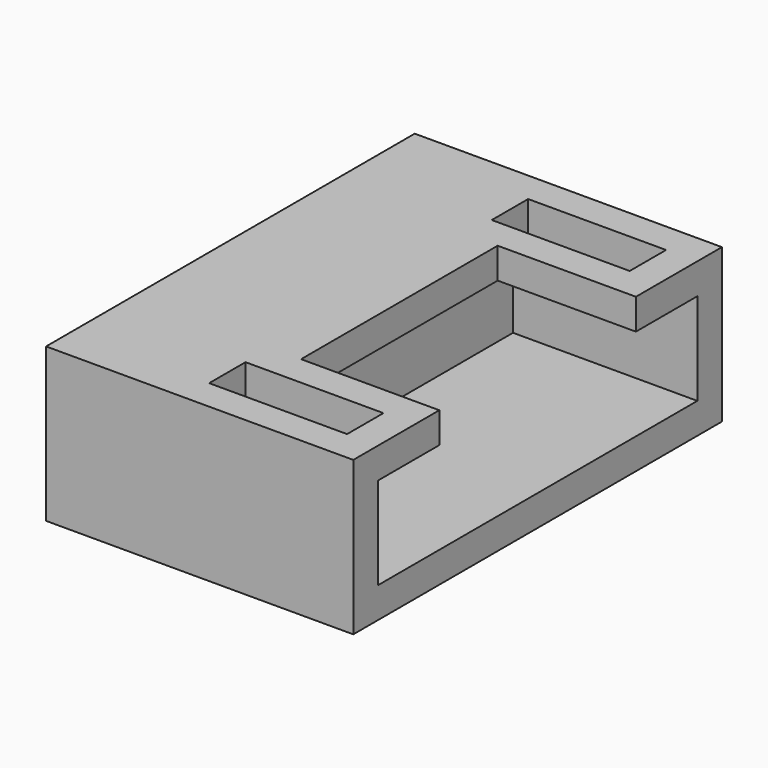
from build123d import *

# Parameters (mm, degrees)
SKETCH014_W     = 15
SKETCH014_H     = 5
PAD006_DEPTH    = 10
SKETCH015_W     = 13
SKETCH015_H     = 3
POCKET011_DEPTH = 6
SKETCH016_W     = 8
SKETCH016_H     = 1
POCKET012_DEPTH = 4.5
SKETCH017_W     = 1.48
SKETCH017_H     = 4.49
POCKET014_DEPTH = 2


with BuildPart() as part:
    # Sketch014 → Pad006 (new body)
    with BuildSketch(Plane.YZ):
        with Locations((0, 2.5)):
            Rectangle(SKETCH014_W, SKETCH014_H)
    extrude(amount=PAD006_DEPTH)

    # Sketch015 (on Face6 of Pad006) → Pocket011 (cut)
    with BuildSketch(Plane.YZ.offset(10)):
        with Locations((0, 2.5)):
            Rectangle(SKETCH015_W, SKETCH015_H)
    extrude(amount=-POCKET011_DEPTH, mode=Mode.SUBTRACT)

    # Sketch016 (on Face5 of Pocket011) → Pocket012 (cut)
    with BuildSketch(Plane.YZ.offset(10)):
        with Locations((0, 4.5)):
            Rectangle(SKETCH016_W, SKETCH016_H)
    extrude(amount=-POCKET012_DEPTH, mode=Mode.SUBTRACT)

    # Sketch017 (on Face6 of Pocket012) → Pocket014 (cut)
    with BuildSketch(Plane(origin=(0, 0, 5), x_dir=(0, -1, 0), z_dir=(0, 0, 1))):
        with Locations((-5.75, 6.745)):
            Rectangle(SKETCH017_W, SKETCH017_H)
        with Locations((5.75, 6.745)):
            Rectangle(SKETCH017_W, SKETCH017_H)
    extrude(amount=-POCKET014_DEPTH, mode=Mode.SUBTRACT)


solid = part.part
